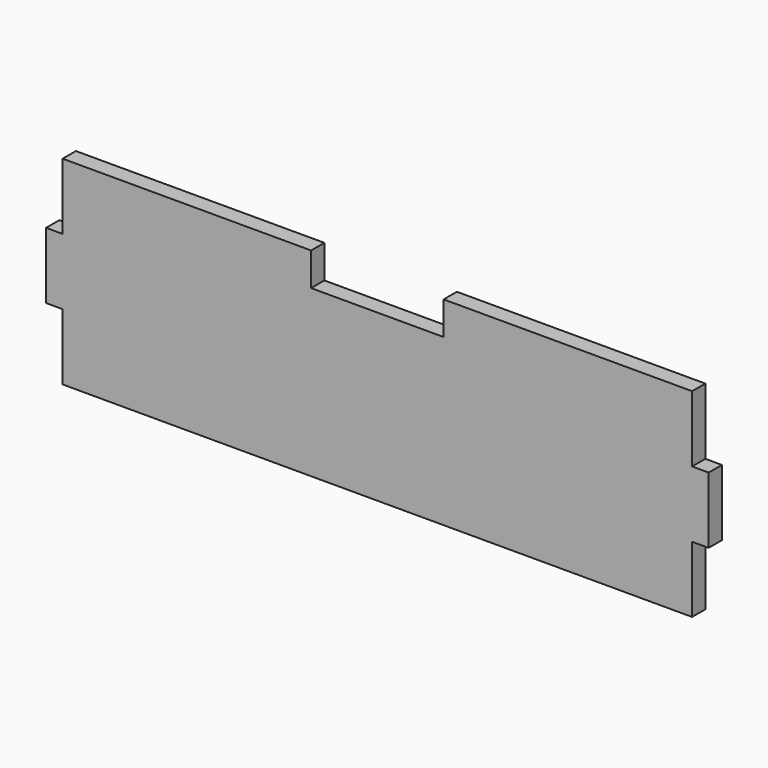
from build123d import *

# Parameters (mm, degrees)
F1_DEPTH = 3.175


with BuildPart() as f1:
    # F0 (on Front) → F1 (new body)
    with BuildSketch(Plane.XZ):
        Polygon((-123.825, 0), (-63.5, 0), (-63.5, 31.75), (-76.2, 31.75), (-76.2, 38.1), (-123.825, 38.1), (-123.825, 25.4), (-127, 25.4), (-127, 12.7), (-123.825, 12.7), align=None)
        Polygon((-63.5, 0), (-3.175, 0), (-3.175, 12.7), (0, 12.7), (0, 25.4), (-3.175, 25.4), (-3.175, 38.1), (-50.8, 38.1), (-50.8, 31.75), (-63.5, 31.75), align=None)
    extrude(amount=F1_DEPTH)


solid = f1.part
